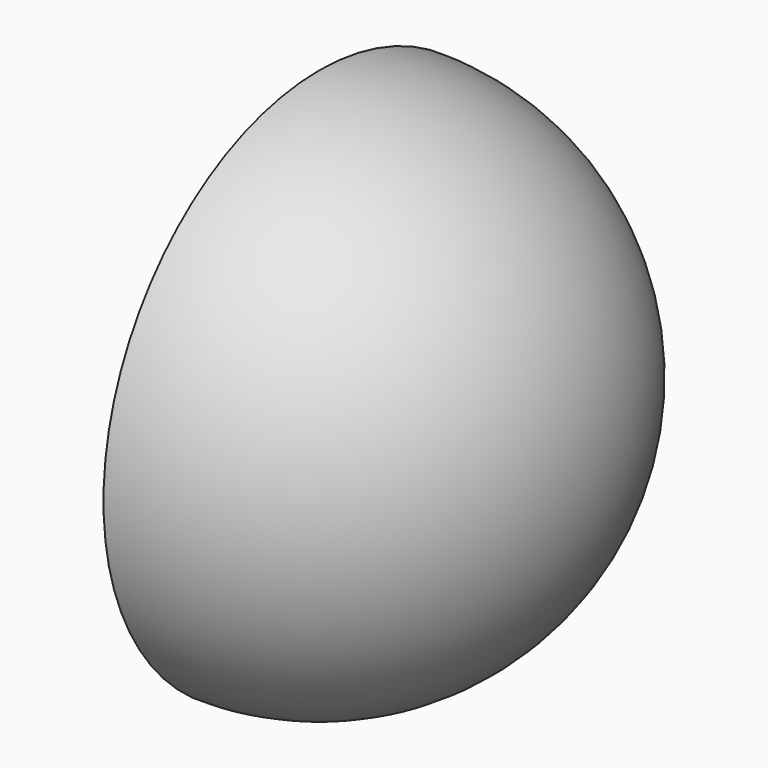
from build123d import *

# Parameters (mm, degrees)
F1_ANGLE_BACK = 90
F1_ANGLE      = 180


with BuildPart() as f1:
    # F0 (on Front) → F1 (revolve)
    with BuildSketch(Plane.XZ, mode=Mode.PRIVATE) as f1_sk:
        with BuildLine():
            Line((0, 19.05), (0, -19.05))
            ThreePointArc((0, -19.05), (19.05, 0), (0, 19.05))
        make_face()
    revolve(f1_sk.sketch.rotate(Axis((0, 0, 28.525814414), (0, 0, 1)), -F1_ANGLE_BACK), axis=Axis((0, 0, 28.525814414), (0, 0, 1)), revolution_arc=F1_ANGLE)


solid = f1.part
